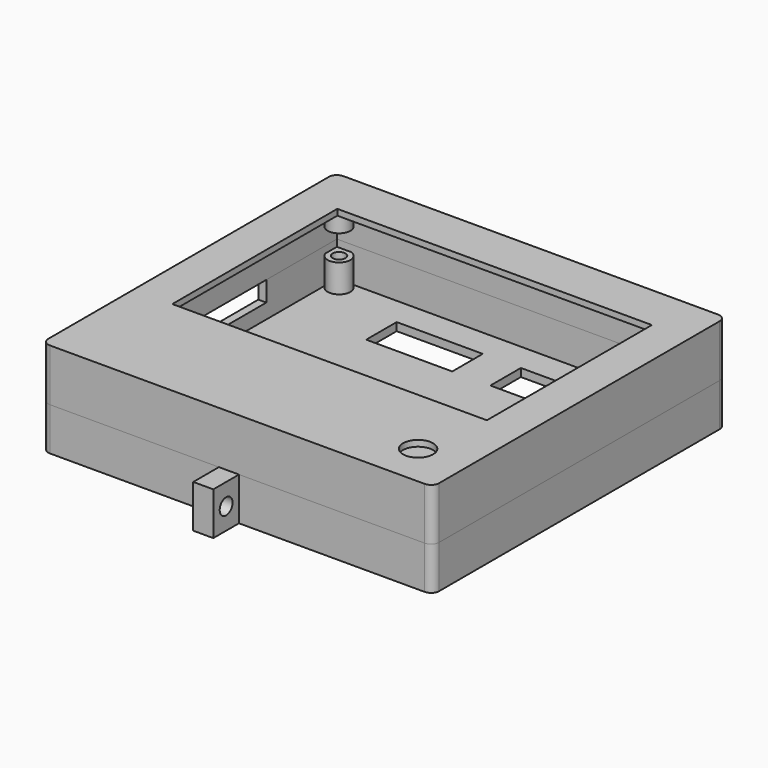
from build123d import *

# Parameters (mm, degrees)
F0_W      = 21.45
F0_H      = 9.5
F0_R      = 1.6
F1_DEPTH  = 2
F2_DEPTH  = 7
F3_DEPTH  = 8.7
F4_W      = 27.5
F4_H      = 5
F5_DEPTH  = 2
F8_DEPTH  = 13
F7_R      = 1.4
F7_R_2    = 1.3128055781
F9_DEPTH  = 8.3
F7_R_3    = 3.75
F7_W      = 78.4
F7_H      = 51.4
F10_DEPTH = 1.5
F11_R     = 2
F12_DEPTH = 53.2863007297
F13_R     = 2
F13_2_R   = 2


with BuildPart() as f1:
    # F0 (on Top) → F1 (new body)
    with BuildSketch(Plane.XY):
        Polygon((50.7853007297, 45.7), (-46.6146992703, 45.7), (-46.6146992703, -45.7), (-2.5, -45.7), (2.5, -45.7), (50.7853007297, -45.7), align=None)
        Polygon((-44.6146992703, 40.1459885527), (-44.6146992703, 43.7), (-41.060687823, 43.7), (45.3117090194, 43.7), (48.7853007297, 43.7), (48.7853007297, 40.2264082898), (48.7853007297, -22.5416876048), (48.7853007297, -25.4583123952), (48.7853007297, -43.7), (-44.6146992703, -43.7), (-44.6146992703, -25.4583123952), (-44.6146992703, -22.5416876048), align=None, mode=Mode.SUBTRACT)
        with BuildLine():
            Line((45.3117090194, 43.7), (-41.060687823, 43.7))
            ThreePointArc((-41.060687823, 43.7), (-39.9122837849, 38.9975845146), (-44.6146992703, 40.1459885527))
            Line((-44.6146992703, 40.1459885527), (-44.6146992703, -22.5416876048))
            ThreePointArc((-44.6146992703, -22.5416876048), (-38.8460391324, -24), (-44.6146992703, -25.4583123952))
            Line((-44.6146992703, -25.4583123952), (-44.6146992703, -43.7))
            Line((-44.6146992703, -43.7), (48.7853007297, -43.7))
            Line((48.7853007297, -43.7), (48.7853007297, -25.4583123952))
            ThreePointArc((48.7853007297, -25.4583123952), (43.0166405918, -24), (48.7853007297, -22.5416876048))
            Line((48.7853007297, -22.5416876048), (48.7853007297, 40.2264082898))
            ThreePointArc((48.7853007297, 40.2264082898), (44.099294167, 39.0139934373), (45.3117090194, 43.7))
        make_face()
        with Locations((-13.3896992703, 31.95)):
            Rectangle(F0_W, F0_H, mode=Mode.SUBTRACT)
        with Locations((17.5603007297, 31.95)):
            Rectangle(F0_W, F0_H, mode=Mode.SUBTRACT)
        with BuildLine():
            Line((45.3117090194, 43.7), (-41.060687823, 43.7))
            ThreePointArc((-41.060687823, 43.7), (-39.9122837849, 38.9975845146), (-44.6146992703, 40.1459885527))
            Line((-44.6146992703, 40.1459885527), (-44.6146992703, -22.5416876048))
            ThreePointArc((-44.6146992703, -22.5416876048), (-38.8460391324, -24), (-44.6146992703, -25.4583123952))
            Line((-44.6146992703, -25.4583123952), (-44.6146992703, -43.7))
            Line((-44.6146992703, -43.7), (48.7853007297, -43.7))
            Line((48.7853007297, -43.7), (48.7853007297, -25.4583123952))
            ThreePointArc((48.7853007297, -25.4583123952), (43.0166405918, -24), (48.7853007297, -22.5416876048))
            Line((48.7853007297, -22.5416876048), (48.7853007297, 40.2264082898))
            ThreePointArc((48.7853007297, 40.2264082898), (44.099294167, 39.0139934373), (45.3117090194, 43.7))
        make_face()
        with Locations((-13.3896992703, 31.95)):
            Rectangle(F0_W, F0_H, mode=Mode.SUBTRACT)
        with Locations((17.5603007297, 31.95)):
            Rectangle(F0_W, F0_H, mode=Mode.SUBTRACT)
        Polygon((2.5, -45.7), (-2.5, -45.7), (-2.5, -53.7), (0, -53.7), (2.5, -53.7), align=None)
        with BuildLine():
            ThreePointArc((-44.6146992703, -25.4583123952), (-38.8460391324, -24), (-44.6146992703, -22.5416876048))
            Line((-44.6146992703, -22.5416876048), (-44.6146992703, -25.4583123952))
        make_face()
        with Locations((-41.9146992703, -24)):
            Circle(F0_R, mode=Mode.SUBTRACT)
        with BuildLine():
            Line((48.7853007297, -25.4583123952), (48.7853007297, -22.5416876048))
            ThreePointArc((48.7853007297, -22.5416876048), (43.0166405918, -24), (48.7853007297, -25.4583123952))
        make_face()
        with Locations((46.0853007297, -24)):
            Circle(F0_R, mode=Mode.SUBTRACT)
        with BuildLine():
            Line((-41.060687823, 43.7), (-44.6146992703, 43.7))
            Line((-44.6146992703, 43.7), (-44.6146992703, 40.1459885527))
            ThreePointArc((-44.6146992703, 40.1459885527), (-39.9122837849, 38.9975845146), (-41.060687823, 43.7))
        make_face()
        with Locations((-41.9146992703, 41)):
            Circle(F0_R, mode=Mode.SUBTRACT)
        with BuildLine():
            Line((48.7853007297, 43.7), (45.3117090194, 43.7))
            ThreePointArc((45.3117090194, 43.7), (44.099294167, 39.0139934373), (48.7853007297, 40.2264082898))
            Line((48.7853007297, 40.2264082898), (48.7853007297, 43.7))
        make_face()
        with Locations((46.0853007297, 41)):
            Circle(F0_R, mode=Mode.SUBTRACT)
    extrude(amount=-F1_DEPTH)

    # F0 (on Top) → F2 (join)
    with BuildSketch(Plane.XY):
        with BuildLine():
            Line((-41.060687823, 43.7), (-44.6146992703, 43.7))
            Line((-44.6146992703, 43.7), (-44.6146992703, 40.1459885527))
            ThreePointArc((-44.6146992703, 40.1459885527), (-39.9122837849, 38.9975845146), (-41.060687823, 43.7))
        make_face()
        with Locations((-41.9146992703, 41)):
            Circle(F0_R, mode=Mode.SUBTRACT)
        with BuildLine():
            Line((48.7853007297, 43.7), (45.3117090194, 43.7))
            ThreePointArc((45.3117090194, 43.7), (44.099294167, 39.0139934373), (48.7853007297, 40.2264082898))
            Line((48.7853007297, 40.2264082898), (48.7853007297, 43.7))
        make_face()
        with Locations((46.0853007297, 41)):
            Circle(F0_R, mode=Mode.SUBTRACT)
        with BuildLine():
            Line((48.7853007297, -25.4583123952), (48.7853007297, -22.5416876048))
            ThreePointArc((48.7853007297, -22.5416876048), (43.0166405918, -24), (48.7853007297, -25.4583123952))
        make_face()
        with Locations((46.0853007297, -24)):
            Circle(F0_R, mode=Mode.SUBTRACT)
        with BuildLine():
            ThreePointArc((-44.6146992703, -25.4583123952), (-38.8460391324, -24), (-44.6146992703, -22.5416876048))
            Line((-44.6146992703, -22.5416876048), (-44.6146992703, -25.4583123952))
        make_face()
        with Locations((-41.9146992703, -24)):
            Circle(F0_R, mode=Mode.SUBTRACT)
    extrude(amount=F2_DEPTH)

    # F0 (on Top) → F3 (join)
    with BuildSketch(Plane.XY):
        Polygon((50.7853007297, 45.7), (-46.6146992703, 45.7), (-46.6146992703, -45.7), (-2.5, -45.7), (2.5, -45.7), (50.7853007297, -45.7), align=None)
        Polygon((-44.6146992703, 40.1459885527), (-44.6146992703, 43.7), (-41.060687823, 43.7), (45.3117090194, 43.7), (48.7853007297, 43.7), (48.7853007297, 40.2264082898), (48.7853007297, -22.5416876048), (48.7853007297, -25.4583123952), (48.7853007297, -43.7), (-44.6146992703, -43.7), (-44.6146992703, -25.4583123952), (-44.6146992703, -22.5416876048), align=None, mode=Mode.SUBTRACT)
        Polygon((2.5, -45.7), (-2.5, -45.7), (-2.5, -53.7), (0, -53.7), (2.5, -53.7), align=None)
    extrude(amount=F3_DEPTH)

    # F4 (on face) → F5 (cut, through all)
    with BuildSketch(Plane(origin=(-46.6146992703, 0, 0), x_dir=(0, -1, 0), z_dir=(-1, 0, 0))):
        with Locations((-7.95, 6.2)):
            Rectangle(F4_W, F4_H)
    extrude(amount=-F5_DEPTH, mode=Mode.SUBTRACT)

    # F11 (on face) → F12 (cut, through all)
    with BuildSketch(Plane(origin=(-2.5, 0, 0), x_dir=(0, -1, 0), z_dir=(-1, 0, 0))):
        with Locations((49.7, 3.35)):
            Circle(F11_R)
    extrude(amount=-F12_DEPTH, mode=Mode.SUBTRACT)

    # F13#2
    f13_2_edges = [f1.edges().sort_by_distance(p)[0] for p in [
        (-46.614699, -45.7, 3.35),
        (50.785301, -45.7, 3.35),
        (50.785301, 45.7, 3.35),
        (-46.614699, 45.7, 3.35),
    ]]
    fillet(f13_2_edges, radius=F13_2_R)


with BuildPart() as f8:
    # F7 (on offset) → F8 (new body)
    with BuildSketch(Plane.XY.offset(21.7)):
        Polygon((50.7853007297, 45.7), (-46.6146992703, 45.7), (-46.6146992703, -45.7), (-2.5, -45.7), (2.5, -45.7), (50.7853007297, -45.7), align=None)
        Polygon((-44.6146992703, 40.1459885527), (-44.6146992703, 43.7), (-41.060687823, 43.7), (45.3117090194, 43.7), (48.7853007297, 43.7), (48.7853007297, 40.2264082898), (48.7853007297, -22.5416876048), (48.7853007297, -25.4583123952), (48.7853007297, -43.7), (-44.6146992703, -43.7), (-44.6146992703, -25.4583123952), (-44.6146992703, -22.5416876048), align=None, mode=Mode.SUBTRACT)
    extrude(amount=-F8_DEPTH)

    # F7 (on offset) → F9 (join)
    with BuildSketch(Plane.XY.offset(21.7)):
        with BuildLine():
            Line((-41.060687823, 43.7), (-44.6146992703, 43.7))
            Line((-44.6146992703, 43.7), (-44.6146992703, 40.1459885527))
            ThreePointArc((-44.6146992703, 40.1459885527), (-39.9122837849, 38.9975845146), (-41.060687823, 43.7))
        make_face()
        with Locations((-41.9146992703, 41)):
            Circle(F7_R, mode=Mode.SUBTRACT)
        with BuildLine():
            Line((48.7853007297, 43.7), (45.3117090194, 43.7))
            ThreePointArc((45.3117090194, 43.7), (44.099294167, 39.0139934373), (48.7853007297, 40.2264082898))
            Line((48.7853007297, 40.2264082898), (48.7853007297, 43.7))
        make_face()
        with Locations((46.0853007297, 41)):
            Circle(F7_R_2, mode=Mode.SUBTRACT)
        with BuildLine():
            Line((48.7853007297, -25.4583123952), (48.7853007297, -22.5416876048))
            ThreePointArc((48.7853007297, -22.5416876048), (43.0166405918, -24), (48.7853007297, -25.4583123952))
        make_face()
        with Locations((46.0853007297, -24)):
            Circle(F7_R_2, mode=Mode.SUBTRACT)
        with BuildLine():
            ThreePointArc((-44.6146992703, -25.4583123952), (-38.8460391324, -24), (-44.6146992703, -22.5416876048))
            Line((-44.6146992703, -22.5416876048), (-44.6146992703, -25.4583123952))
        make_face()
        with Locations((-41.9146992703, -24)):
            Circle(F7_R_2, mode=Mode.SUBTRACT)
    extrude(amount=-F9_DEPTH)

    # F7 (on offset) → F10 (join)
    with BuildSketch(Plane.XY.offset(21.7)):
        with BuildLine():
            ThreePointArc((-41.060687823, 43.7), (-39.9122837849, 38.9975845146), (-44.6146992703, 40.1459885527))
            Line((-44.6146992703, 40.1459885527), (-44.6146992703, -22.5416876048))
            ThreePointArc((-44.6146992703, -22.5416876048), (-38.8460391324, -24), (-44.6146992703, -25.4583123952))
            Line((-44.6146992703, -25.4583123952), (-44.6146992703, -43.7))
            Line((-44.6146992703, -43.7), (48.7853007297, -43.7))
            Line((48.7853007297, -43.7), (48.7853007297, -25.4583123952))
            ThreePointArc((48.7853007297, -25.4583123952), (43.0166405918, -24), (48.7853007297, -22.5416876048))
            Line((48.7853007297, -22.5416876048), (48.7853007297, 40.2264082898))
            ThreePointArc((48.7853007297, 40.2264082898), (44.099294167, 39.0139934373), (45.3117090194, 43.7))
            Line((45.3117090194, 43.7), (-41.060687823, 43.7))
        make_face()
        with Locations((38.5353007297, -34.95)):
            Circle(F7_R_3, mode=Mode.SUBTRACT)
        with Locations((2.2853007297, 8.5)):
            Rectangle(F7_W, F7_H, mode=Mode.SUBTRACT)
        with Locations((-41.9146992703, 41)):
            Circle(F7_R)
        with Locations((-41.9146992703, -24)):
            Circle(F7_R_2)
        with Locations((46.0853007297, 41)):
            Circle(F7_R_2)
        with Locations((46.0853007297, -24)):
            Circle(F7_R_2)
    extrude(amount=-F10_DEPTH)

    # F13
    f13_edges = [f8.edges().sort_by_distance(p)[0] for p in [
        (-46.614699, -45.7, 15.2),
        (50.785301, -45.7, 15.2),
        (50.785301, 45.7, 15.2),
        (-46.614699, 45.7, 15.2),
    ]]
    fillet(f13_edges, radius=F13_R)


solid = Compound([f1.part, f8.part])
